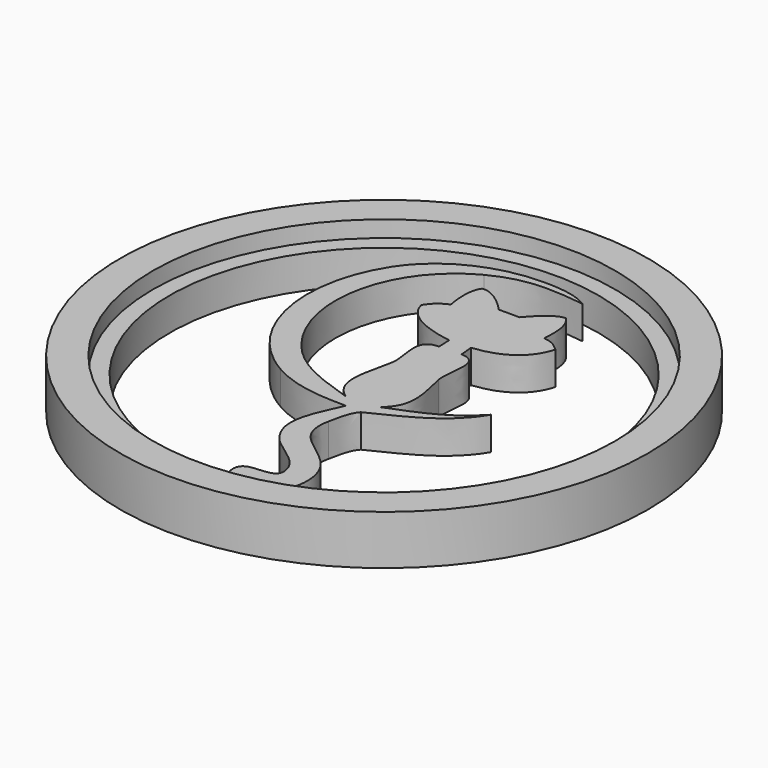
from build123d import *

# Parameters (mm, degrees)
PAD002_DEPTH  = 10
SKETCH_R      = 80
SKETCH_R_2    = 65
PAD_DEPTH     = 15
SKETCH001_R   = 70
SKETCH001_R_2 = 65
POCKET_DEPTH  = 5


with BuildPart() as design005:
    # Sketch004 → Pad002 (new body)
    with BuildSketch(Plane.XY):
        with BuildLine():
            add(Edge.make_bspline(
                [(2.857443, -18.112357), (-0.294933, -25.68391), (-5.159351, -33.231682), (0.976613, -40.898296)],
                knots=[0, 0, 0, 0, 1, 1, 1, 1], degree=3))
            add(Edge.make_bspline(
                [(0.976613, -40.898296), (4.258386, -44.998653), (11.444412, -47.145409), (12.433102, -52.81238)],
                knots=[0, 0, 0, 0, 1, 1, 1, 1], degree=3))
            add(Edge.make_bspline(
                [(12.433102, -52.81238), (13.672867, -59.918926), (0.142448, -52.599291), (2.448137, -61.936397)],
                knots=[0, 0, 0, 0, 1, 1, 1, 1], degree=3))
            add(Edge.make_bspline(
                [(2.448137, -61.936397), (4.168518, -68.902567), (12.92857, -67.682118), (16.678326, -63.34405)],
                knots=[0, 0, 0, 0, 1, 1, 1, 1], degree=3))
            add(Edge.make_bspline(
                [(16.678326, -63.34405), (17.9515, -61.871038), (18.73965, -60.086786), (19.252918, -58.224542)],
                knots=[0, 0, 0, 0, 1, 1, 1, 1], degree=3))
            add(Edge.make_bspline(
                [(19.252918, -58.224542), (20.62938, -53.230586), (19.684515, -48.0056), (16.087768, -44.18007)],
                knots=[0, 0, 0, 0, 1, 1, 1, 1], degree=3))
            add(Edge.make_bspline(
                [(16.087768, -44.18007), (10.550813, -38.291025), (2.704434, -36.922733), (4.725639, -27.026176)],
                knots=[0, 0, 0, 0, 1, 1, 1, 1], degree=3))
            add(Edge.make_bspline(
                [(4.725639, -27.026176), (5.25154, -24.448609), (5.856192, -20.447778), (7.733288, -18.49342)],
                knots=[0, 0, 0, 0, 1, 1, 1, 1], degree=3))
            add(Edge.make_bspline(
                [(7.733288, -18.49342), (17.735996, -13.502495), (26.919785, -9.769163), (32.570163, -0.28472)],
                knots=[0, 0, 0, 0, 1, 1, 1, 1], degree=3))
            add(Edge.make_bspline(
                [(32.570163, -0.28472), (26.066248, -7.456006), (18.281606, -10.206067), (9.542807, -13.655448)],
                knots=[0, 0, 0, 0, 1, 1, 1, 1], degree=3))
            add(Edge.make_bspline(
                [(9.542807, -13.655448), (16.000679, -8.525608), (13.223554, -1.474567), (11.713483, 6.058606)],
                knots=[0, 0, 0, 0, 1, 1, 1, 1], degree=3))
            add(Edge.make_bspline(
                [(11.713483, 6.058606), (10.782881, 10.701008), (14.934643, 19.337951), (7.8473, 19.546155)],
                knots=[0, 0, 0, 0, 1, 1, 1, 1], degree=3))
            add(Edge.make_bspline(
                [(7.8473, 19.546155), (7.456159, 23.596735)],
                knots=[0, 0, 1.449481, 1.449481], degree=1))
            add(Edge.make_bspline(
                [(7.456159, 23.596735), (15.213484, 24.396732), (21.533452, 27.885447), (23.656316, 35.370556)],
                knots=[0, 0, 0, 0, 1, 1, 1, 1], degree=3))
            add(Edge.make_bspline(
                [(23.656316, 35.370556), (21.738877, 36.918556), (20.996124, 37.847166), (17.967643, 38.191674)],
                knots=[0, 0, 0, 0, 1, 1, 1, 1], degree=3))
            add(Edge.make_bspline(
                [(17.967643, 38.191674), (18.163326, 41.416764), (18.577573, 46.391209), (15.485334, 49.484093)],
                knots=[0, 0, 0, 0, 1, 1, 1, 1], degree=3))
            add(Edge.make_bspline(
                [(15.485334, 49.484093), (11.619572, 49.321819), (6.684433, 42.943063), (6.684433, 42.943063)],
                knots=[0, 0, 0, 0, 1, 1, 1, 1], degree=3))
            add(Edge.make_bspline(
                [(6.684433, 42.943063), (0.389929, 42.975068)],
                knots=[0, 0, 2.242059, 2.242059], degree=1))
            add(Edge.make_bspline(
                [(0.389929, 42.975068), (0.389929, 42.975068), (-5.357645, 49.546785), (-9.404462, 48.888341)],
                knots=[0, 0, 0, 0, 1, 1, 1, 1], degree=3))
            add(Edge.make_bspline(
                [(-9.404462, 48.888341), (-11.478785, 46.3327), (-10.479708, 39.424645), (-10.082306, 37.964604)],
                knots=[0, 0, 0, 0, 1, 1, 1, 1], degree=3))
            add(Edge.make_bspline(
                [(-10.082306, 37.964604), (-11.769249, 37.110168), (-13.705696, 36.218281), (-15.379613, 33.344635)],
                knots=[0, 0, 0, 0, 1, 1, 1, 1], degree=3))
            add(Edge.make_bspline(
                [(-15.379613, 33.344635), (-14.000933, 27.134412), (-5.854881, 24.350493), (1.003565, 23.442238)],
                knots=[0, 0, 0, 0, 1, 1, 1, 1], degree=3))
            add(Edge.make_bspline(
                [(1.003565, 23.442238), (1.210197, 19.360017)],
                knots=[0, 0, 1.455902, 1.455902], degree=1))
            add(Edge.make_bspline(
                [(1.210197, 19.360017), (-6.253659, 19.181741), (-1.456845, 10.612599), (-2.443795, 5.974016)],
                knots=[0, 0, 0, 0, 1, 1, 1, 1], degree=3))
            add(Edge.make_bspline(
                [(-2.443795, 5.974016), (-4.454668, -3.477046), (-6.614086, -9.8608), (-0.113933, -14.398285)],
                knots=[0, 0, 0, 0, 1, 1, 1, 1], degree=3))
            add(Edge.make_bspline(
                [(-0.113933, -14.398285), (-9.732856, -11.135827), (-18.226675, -8.719438), (-24.872819, -0.284748)],
                knots=[0, 0, 0, 0, 1, 1, 1, 1], degree=3))
            add(Edge.make_bspline(
                [(-24.872819, -0.284748), (-38.713975, 17.282017), (-33.70723, 44.153601), (-13.484661, 54.695238)],
                knots=[0, 0, 0, 0, 1, 1, 1, 1], degree=3))
            add(Edge.make_bspline(
                [(-13.484661, 54.695238), (-4.122569, 59.575547), (3.993106, 58.947368), (13.999604, 57.655075)],
                knots=[0, 0, 0, 0, 1, 1, 1, 1], degree=3))
            add(Edge.make_bspline(
                [(13.999604, 57.655075), (9.88215, 60.2423), (4.647534, 60.620555), (-0.113933, 60.626339)],
                knots=[0, 0, 0, 0, 1, 1, 1, 1], degree=3))
            add(Edge.make_bspline(
                [(-0.113933, 60.626339), (-12.760213, 60.643184), (-26.055459, 55.212155), (-33.133851, 44.284347)],
                knots=[0, 0, 0, 0, 1, 1, 1, 1], degree=3))
            add(Edge.make_bspline(
                [(-33.133851, 44.284347), (-45.363462, 25.403755), (-41.088394, -1.481951), (-20.912857, -13.102089)],
                knots=[0, 0, 0, 0, 1, 1, 1, 1], degree=3))
            add(Edge.make_bspline(
                [(-20.912857, -13.102089), (-13.292123, -17.490636), (-5.714956, -18.112386), (2.857331, -18.112386)],
                knots=[0, 0, 0, 0, 1, 1, 1, 1], degree=3))
            add(Edge.make_bspline(
                [(2.857331, -18.112386), (2.857443, -18.112357)],
                knots=[0, 0, 4.1e-05, 4.1e-05], degree=1))
        make_face()
    extrude(amount=PAD002_DEPTH)


with BuildPart() as half_lamp_with_design:
    # Sketch → Pad (new body)
    with BuildSketch(Plane.XY):
        Circle(SKETCH_R)
        Circle(SKETCH_R_2, mode=Mode.SUBTRACT)
    extrude(amount=PAD_DEPTH)

    # Sketch001 (on Face4 of Pad) → Pocket (cut)
    with BuildSketch(Plane.XY.offset(15)):
        Circle(SKETCH001_R)
        Circle(SKETCH001_R_2, mode=Mode.SUBTRACT)
    extrude(amount=-POCKET_DEPTH, mode=Mode.SUBTRACT)

    # Boolean: union design005
    add(design005.part)


solid = half_lamp_with_design.part
